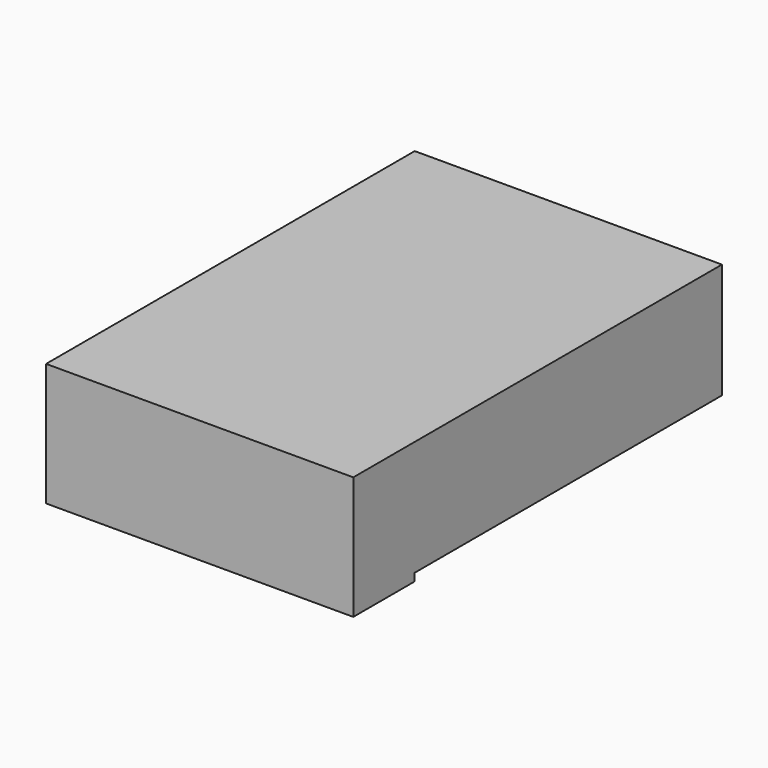
from build123d import *

# Parameters (mm, degrees)
F0_W     = 1219.2
F0_H     = 1828.8
F1_DEPTH = 457.2
F2_W     = 609.6
F2_H     = 304.8
F3_DEPTH = 30.48


with BuildPart() as f1:
    # F0 (on Top) → F1 (new body)
    with BuildSketch(Plane.XY):
        with Locations((-381.164858, -13.628076)):
            Rectangle(F0_W, F0_H)
    extrude(amount=F1_DEPTH)

    # F2 (on face) → F3 (join)
    with BuildSketch(Plane(origin=(0, 0, 0), x_dir=(1, 0, 0), z_dir=(0, 0, -1))):
        with Locations((-685.964858, 775.628076)):
            Rectangle(F2_W, F2_H)
        with Locations((-76.364858, 775.628076)):
            Rectangle(F2_W, F2_H)
    extrude(amount=F3_DEPTH)


solid = f1.part
